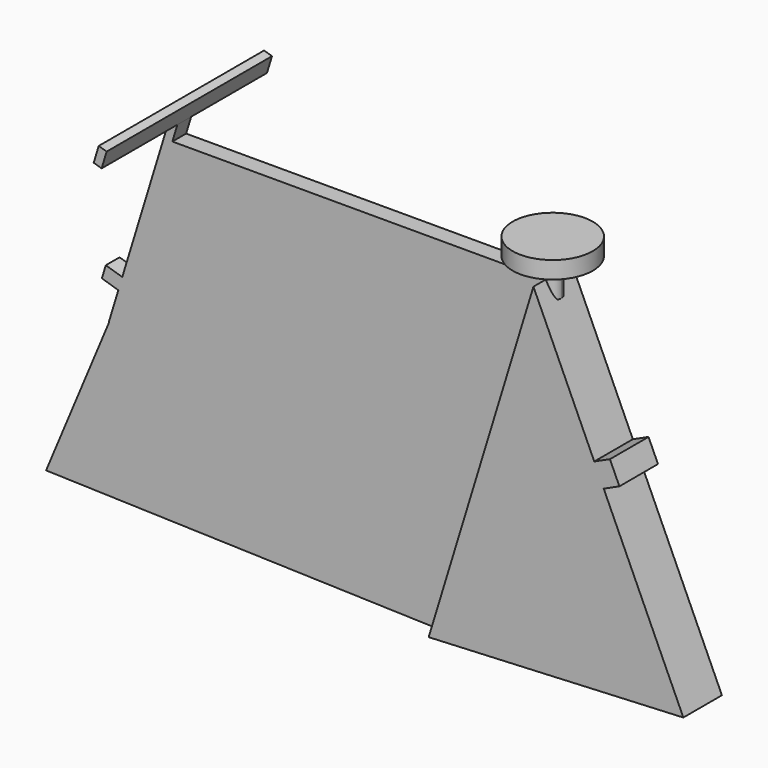
from build123d import *

# Parameters (mm, degrees)
F2_DEPTH      = 12.5
F3_DEPTH      = 35
F5_DEPTH      = 25
F6_DEPTH      = 12
F7_DEPTH      = 116
F7_DEPTH_BACK = 25
F8_DEPTH      = 25
F9_W          = 12
F9_H          = 137.5
F9_H_2        = 25
F10_DEPTH     = 25
F11_W         = 70
F11_H         = 33.2023501396
F12_DEPTH     = 25
F13_DEPTH     = 12.5
F14_W         = 25
F14_H         = 19.5178985596
F15_DEPTH     = 25
F16_R         = 56.3233112178
F16_R_2       = 12.5
F17_DEPTH     = 25
F19_R         = 58.1415954248
F20_DEPTH     = 25


with BuildPart() as f2:
    # F1 (on offset) → F2 (new body, symmetric)
    with BuildSketch(Plane.XZ.offset(100)):
        Polygon((-436.7461862998, 528.7278605353), (0, 184.4581483886), (152.0332864558, 681.7366214894), (-389.9667135442, 681.7366214894), align=None)
    extrude(amount=F2_DEPTH, both=True)

    # F1 (on offset) → F3 (join, symmetric)
    with BuildSketch(Plane.XZ.offset(100)):
        with BuildLine():
            Line((152.0332864558, 681.7366214894), (0, 184.4581483886))
            Line((0, 184.4581483886), (75.4155046728, 188.0290943346))
            ThreePointArc((75.4155046728, 188.0290943346), (118.345751191, 355.6091461552), (247.9658580263, 470.1722629873))
            Line((247.9658580263, 470.1722629873), (152.0332864558, 681.7366214894))
        make_face()
        with BuildLine():
            ThreePointArc((247.9658580263, 470.1722629873), (118.345751191, 355.6091461552), (75.4155046728, 188.0290943346))
            Line((75.4155046728, 188.0290943346), (369.5859169395, 201.9581483886))
            Line((369.5859169395, 201.9581483886), (247.9658580263, 470.1722629873))
        make_face()
    extrude(amount=F3_DEPTH, both=True)

    # F4 (on face) → F5 (join, symmetric)
    with BuildSketch(Plane.XY.offset(681.7366214894)):
        with BuildLine():
            Line((152.0332864558, -112.5), (152.0332864558, -87.5))
            ThreePointArc((152.0332864558, -87.5), (139.5332864558, -100), (152.0332864558, -112.5))
        make_face()
        with BuildLine():
            ThreePointArc((152.0332864558, -112.5), (160.8721212207, -108.8388347648), (164.5332864558, -100))
            ThreePointArc((164.5332864558, -100), (160.8721212207, -91.1611652352), (152.0332864558, -87.5))
            Line((152.0332864558, -87.5), (152.0332864558, -112.5))
        make_face()
    extrude(amount=F5_DEPTH, both=True)

    # F6 (add): a face of the model
    f6_faces = [f2.faces().sort_by_distance(p)[0] for p in [
        (-413.356449922, -100, 605.2322410124),
    ]]
    extrude(f6_faces, amount=F6_DEPTH)

    # F7 (add, two sides): a face of the model
    f7_faces = [f2.faces().sort_by_distance(p)[0] for p in [
        (-442.4840148356, -100, 530.4820907636),
    ]]
    extrude(f7_faces, amount=F7_DEPTH)
    extrude(f7_faces, amount=-F7_DEPTH_BACK)

    # F8 (add): a face of the model
    f8_faces = [f2.faces().sort_by_distance(p)[0] for p in [
        (-395.70454208, -100, 683.4908517177),
    ]]
    extrude(f8_faces, amount=F8_DEPTH)

    # F9 (on face) → F10 (join)
    with BuildSketch(Plane(origin=(164.5856050194, 0, 538.3352571426), x_dir=(0.956304756, 0, -0.2923717047), z_dir=(0.2923717047, 0, 0.956304756))):
        with Locations((-578.2475210263, -181.25)):
            Rectangle(F9_W, F9_H)
        with Locations((-578.2475210263, -18.75)):
            Rectangle(F9_W, F9_H)
        with Locations((-578.2475210263, -100)):
            Rectangle(F9_W, F9_H_2)
    extrude(amount=F10_DEPTH)

    # F11 (on face) → F12 (join)
    with BuildSketch(Plane(origin=(382.5134832971, 0, 173.4484124494), x_dir=(0, 1, 0), z_dir=(0.9107440224, 0, 0.4129713376))):
        with Locations((-100, 327.7641832829)):
            Rectangle(F11_W, F11_H)
    extrude(amount=F12_DEPTH)

    # F1 (on offset) → F13 (join, symmetric)
    with BuildSketch(Plane.XZ.offset(100)):
        with BuildLine():
            Line((-573.2489245515, 201.9581483886), (-278.8860573945, 192.9719122971))
            ThreePointArc((-278.8860573945, 192.9719122971), (-278.783209758, 197.4645072005), (-278.7489245515, 201.9581483886))
            ThreePointArc((-278.7489245515, 201.9581483886), (-328.1359004952, 365.2059827937), (-459.7326626701, 473.7012408279))
            Line((-459.7326626701, 473.7012408279), (-573.2489245515, 201.9581483886))
        make_face()
        with BuildLine():
            Line((-278.8860573945, 192.9719122971), (0, 184.4581483886))
            Line((0, 184.4581483886), (-436.7461862998, 528.7278605353))
            Line((-436.7461862998, 528.7278605353), (-459.7326626701, 473.7012408279))
            ThreePointArc((-459.7326626701, 473.7012408279), (-328.1359004952, 365.2059827937), (-278.7489245515, 201.9581483886))
            ThreePointArc((-278.7489245515, 201.9581483886), (-278.783209758, 197.4645072005), (-278.8860573945, 192.9719122971))
        make_face()
    extrude(amount=F13_DEPTH, both=True)

    # F14 (on face) → F15 (join)
    with BuildSketch(Plane(origin=(-558.7186830171, 0, 170.8174437025), x_dir=(0, -1, 0), z_dir=(-0.956304756, 0, 0.2923717047))):
        with Locations((100, 318.746984005)):
            Rectangle(F14_W, F14_H)
    extrude(amount=F15_DEPTH)

    # F19 (on face) → F20 (join)
    with BuildSketch(Plane.XY.offset(706.7366214894)):
        with Locations((152.0332864558, -100)):
            Circle(F19_R)
    extrude(amount=F20_DEPTH)


with BuildPart() as f17:
    # F16 (on face) → F17 (new body)
    with BuildSketch(Plane.XY.offset(706.7366214894)):
        with Locations((152.0332864558, -100)):
            Circle(F16_R)
        with Locations((152.0332864558, -100)):
            Circle(F16_R_2, mode=Mode.SUBTRACT)
    extrude(amount=F17_DEPTH)


solid = f2.part
